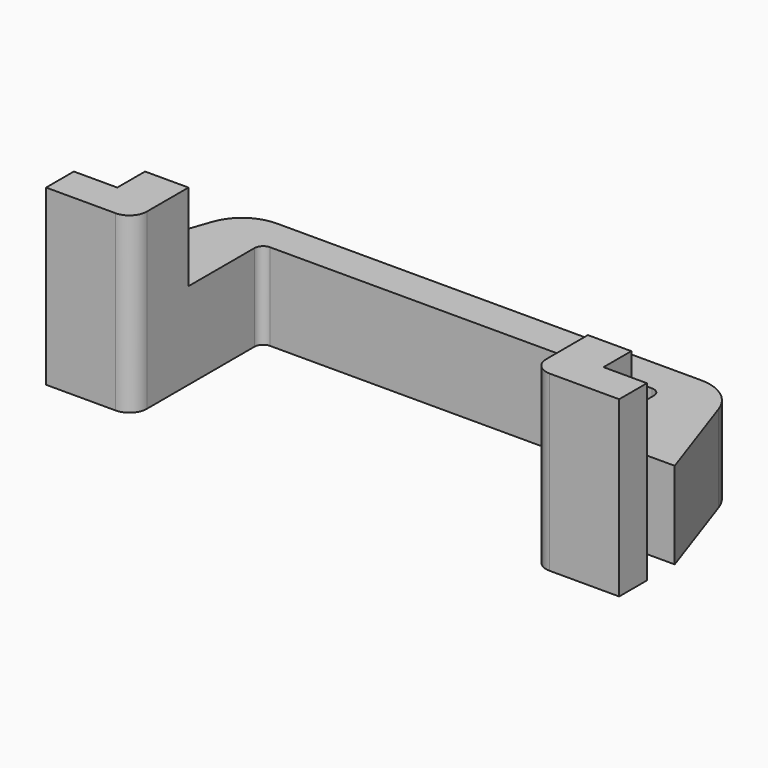
from build123d import *

# Parameters (mm, degrees)
F1_DEPTH = 10
F2_DEPTH = 10


with BuildPart() as f1:
    # F0 (on Top) → F1 (new body)
    with BuildSketch(Plane.XY):
        with BuildLine():
            Line((-33.729644, -15.39088), (-33.729644, -19.39088))
            Line((-33.729644, -19.39088), (-25.729644, -19.39088))
            ThreePointArc((-25.729644, -19.39088), (-24.31543, -18.805094), (-23.729644, -17.39088))
            Line((-23.729644, -17.39088), (-23.729644, -11.39088))
            Line((-23.729644, -11.39088), (-28.729644, -11.39088))
            Line((-28.729644, -11.39088), (-28.729644, -15.39088))
            Line((-28.729644, -15.39088), (-33.729644, -15.39088))
        make_face()
        with BuildLine():
            Line((-28.729644, -11.39088), (-23.729644, -11.39088))
            Line((-23.729644, -11.39088), (-23.729644, -1.89088))
            ThreePointArc((-23.729644, -1.89088), (-23.43675, -1.183774), (-22.729644, -0.89088))
            Line((-22.729644, -0.89088), (21.270356, -0.89088))
            ThreePointArc((21.270356, -0.89088), (21.977463, -1.183774), (22.270356, -1.89088))
            Line((22.270356, -1.89088), (22.270356, -11.39088))
            Line((22.270356, -11.39088), (27.270356, -11.39088))
            Line((27.270356, -11.39088), (32.270356, -11.39088))
            Line((32.270356, -11.39088), (28.432441, -0.260927))
            ThreePointArc((28.432441, -0.260927), (26.608182, 2.180346), (23.705576, 3.10912))
            Line((23.705576, 3.10912), (-25.164864, 3.10912))
            ThreePointArc((-25.164864, 3.10912), (-28.067469, 2.180346), (-29.891729, -0.260927))
            Line((-29.891729, -0.260927), (-33.729644, -11.39088))
            Line((-33.729644, -11.39088), (-28.729644, -11.39088))
        make_face()
        with BuildLine():
            Line((27.270356, -11.39088), (22.270356, -11.39088))
            Line((22.270356, -11.39088), (22.270356, -17.39088))
            ThreePointArc((22.270356, -17.39088), (22.856143, -18.805094), (24.270356, -19.39088))
            Line((24.270356, -19.39088), (32.270356, -19.39088))
            Line((32.270356, -19.39088), (32.270356, -15.39088))
            Line((32.270356, -15.39088), (27.270356, -15.39088))
            Line((27.270356, -15.39088), (27.270356, -11.39088))
        make_face()
    extrude(amount=-F1_DEPTH)

    # F0 (on Top) → F2 (join)
    with BuildSketch(Plane.XY):
        with BuildLine():
            Line((-33.729644, -15.39088), (-33.729644, -19.39088))
            Line((-33.729644, -19.39088), (-25.729644, -19.39088))
            ThreePointArc((-25.729644, -19.39088), (-24.31543, -18.805094), (-23.729644, -17.39088))
            Line((-23.729644, -17.39088), (-23.729644, -11.39088))
            Line((-23.729644, -11.39088), (-28.729644, -11.39088))
            Line((-28.729644, -11.39088), (-28.729644, -15.39088))
            Line((-28.729644, -15.39088), (-33.729644, -15.39088))
        make_face()
        with BuildLine():
            Line((27.270356, -11.39088), (22.270356, -11.39088))
            Line((22.270356, -11.39088), (22.270356, -17.39088))
            ThreePointArc((22.270356, -17.39088), (22.856143, -18.805094), (24.270356, -19.39088))
            Line((24.270356, -19.39088), (32.270356, -19.39088))
            Line((32.270356, -19.39088), (32.270356, -15.39088))
            Line((32.270356, -15.39088), (27.270356, -15.39088))
            Line((27.270356, -15.39088), (27.270356, -11.39088))
        make_face()
    extrude(amount=F2_DEPTH)


solid = f1.part
